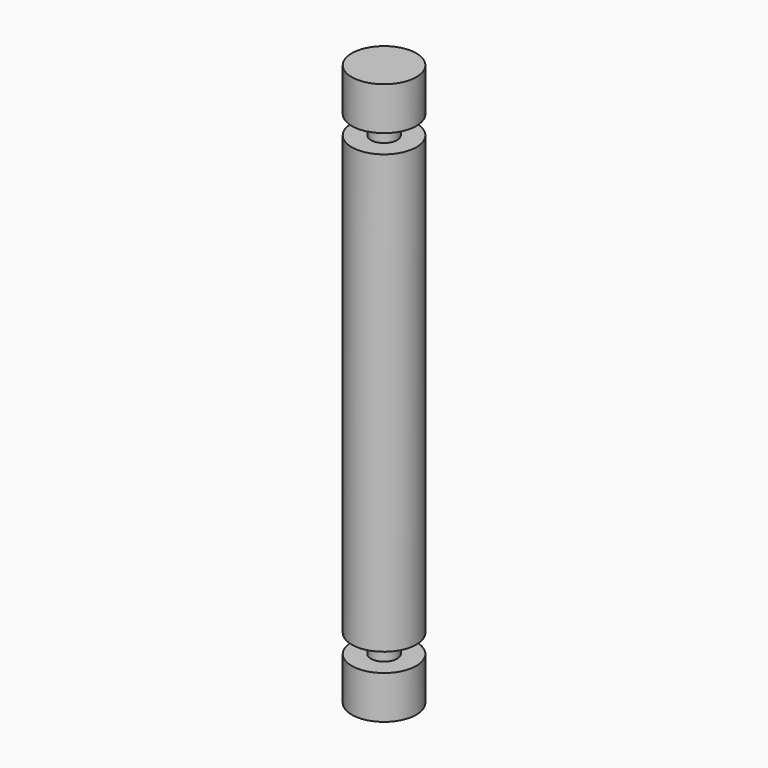
from build123d import *

# Parameters (mm, degrees)
F0_R          = 8.763
F1_DEPTH      = 59.436
F1_DEPTH_BACK = 59.436
F2_R          = 3.556
F3_DEPTH      = 76.2
F3_DEPTH_BACK = 76.2
F6_R          = 8.763
F7_DEPTH      = 11.684
F8_R          = 8.763
F9_DEPTH      = 11.684


with BuildPart() as f1:
    # F0 (on Top) → F1 (new body, two sides)
    with BuildSketch(Plane.XY) as f1_sk:
        Circle(F0_R)
    extrude(amount=F1_DEPTH)
    extrude(f1_sk.sketch, amount=-F1_DEPTH_BACK)

    # F2 (on Top) → F3 (join, two sides)
    with BuildSketch(Plane.XY) as f3_sk:
        Circle(F2_R)
    extrude(amount=F3_DEPTH)
    extrude(f3_sk.sketch, amount=-F3_DEPTH_BACK)

    # F6 (on offset) → F7 (join)
    with BuildSketch(Plane.XY.offset(76.2)):
        Circle(F6_R)
    extrude(amount=-F7_DEPTH)

    # F8 (on offset) → F9 (join)
    with BuildSketch(Plane.XY.offset(-76.2)):
        Circle(F8_R)
    extrude(amount=F9_DEPTH)


solid = f1.part
